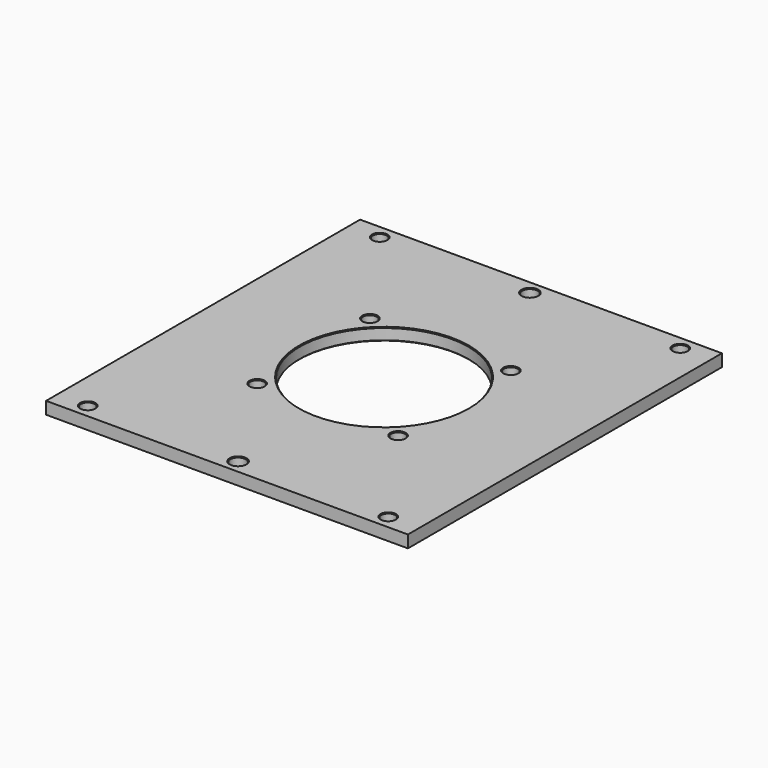
from build123d import *

# Parameters (mm, degrees)
F0_W     = 236
F0_H     = 256
F0_R     = 4.5
F0_R_2   = 5
F0_R_3   = 55
F1_DEPTH = 8
F2_SIZE  = 0.5


with BuildPart() as f1:
    # F0 (on Top) → F1 (new body)
    with BuildSketch(Plane.XY):
        Rectangle(F0_W, F0_H)
        with Locations((-98, -119)):
            Circle(F0_R, mode=Mode.SUBTRACT)
        with Locations((-45.961941, -45.961941)):
            Circle(F0_R, mode=Mode.SUBTRACT)
        with Locations((0, -119)):
            Circle(F0_R_2, mode=Mode.SUBTRACT)
        with Locations((98, -119)):
            Circle(F0_R, mode=Mode.SUBTRACT)
        with Locations((45.961941, -45.961941)):
            Circle(F0_R, mode=Mode.SUBTRACT)
        with Locations((-45.961941, 45.961941)):
            Circle(F0_R, mode=Mode.SUBTRACT)
        with Locations((-98, 119)):
            Circle(F0_R, mode=Mode.SUBTRACT)
        Circle(F0_R_3, mode=Mode.SUBTRACT)
        with Locations((45.961941, 45.961941)):
            Circle(F0_R, mode=Mode.SUBTRACT)
        with Locations((0, 119)):
            Circle(F0_R_2, mode=Mode.SUBTRACT)
        with Locations((98, 119)):
            Circle(F0_R, mode=Mode.SUBTRACT)
    extrude(amount=F1_DEPTH)

    # F2
    f2_edges = [f1.edges().sort_by_distance(p)[0] for p in [
        (-93.5, -119, 4),
        (-102.5, -119, 0),
        (-102.5, -119, 8),
        (-41.461941, -45.961941, 4),
        (-50.461941, -45.961941, 0),
        (-50.461941, -45.961941, 8),
        (55, 0, 4),
        (-55, 0, 0),
        (-55, 0, 8),
        (-41.461941, 45.961941, 4),
        (-50.461941, 45.961941, 0),
        (-50.461941, 45.961941, 8),
        (50.461941, -45.961941, 4),
        (41.461941, -45.961941, 0),
        (41.461941, -45.961941, 8),
        (102.5, -119, 4),
        (93.5, -119, 0),
        (93.5, -119, 8),
        (-93.5, 119, 4),
        (-102.5, 119, 0),
        (-102.5, 119, 8),
        (50.461941, 45.961941, 4),
        (41.461941, 45.961941, 0),
        (41.461941, 45.961941, 8),
        (102.5, 119, 4),
        (93.5, 119, 0),
        (93.5, 119, 8),
        (5, 119, 4),
        (-5, 119, 0),
        (-5, 119, 8),
        (5, -119, 4),
        (-5, -119, 0),
        (-5, -119, 8),
    ]]
    chamfer(f2_edges, length=F2_SIZE)


solid = f1.part
